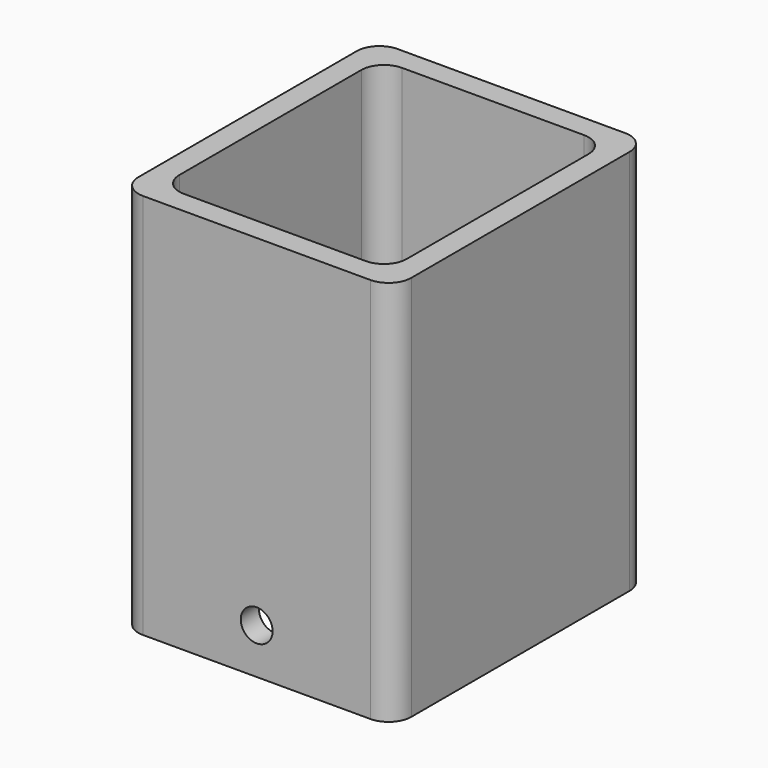
from build123d import *

# Parameters (mm, degrees)
F0_W        = 60
F0_H        = 70
F0_W_2      = 50
F0_H_2      = 60
F1_DEPTH    = 25
F1_FACE_W   = 60
F1_FACE_H   = 70
F1_FACE_W_2 = 50
F1_FACE_H_2 = 60
F2_DEPTH    = 60
F3_R        = 5
F4_R        = 3.5
F5_DEPTH    = 70


with BuildPart() as f1:
    # F0 (on Top) → F1 (new body)
    with BuildSketch(Plane.XY):
        Rectangle(F0_W, F0_H)
        Rectangle(F0_W_2, F0_H_2, mode=Mode.SUBTRACT)
    extrude(amount=F1_DEPTH)

    # F1_face (on face) → F2 (join)
    with BuildSketch(Plane.XY.offset(25)):
        Rectangle(F1_FACE_W, F1_FACE_H)
        Rectangle(F1_FACE_W_2, F1_FACE_H_2, mode=Mode.SUBTRACT)
    extrude(amount=F2_DEPTH)

    # F3
    f3_edges = [f1.edges().sort_by_distance(p)[0] for p in [
        (25, 30, 42.5),
        (30, -35, 42.5),
        (-30, -35, 42.5),
        (-30, 35, 42.5),
        (30, 35, 42.5),
        (25, -30, 42.5),
        (-25, 30, 42.5),
        (-25, -30, 42.5),
    ]]
    fillet(f3_edges, radius=F3_R)

    # F4 (on face) → F5 (cut)
    with BuildSketch(Plane(origin=(0, 35, 0), x_dir=(-1, 0, 0), z_dir=(0, 1, 0))):
        with Locations((0, 10)):
            Circle(F4_R)
    extrude(amount=-F5_DEPTH, mode=Mode.SUBTRACT)


solid = f1.part
